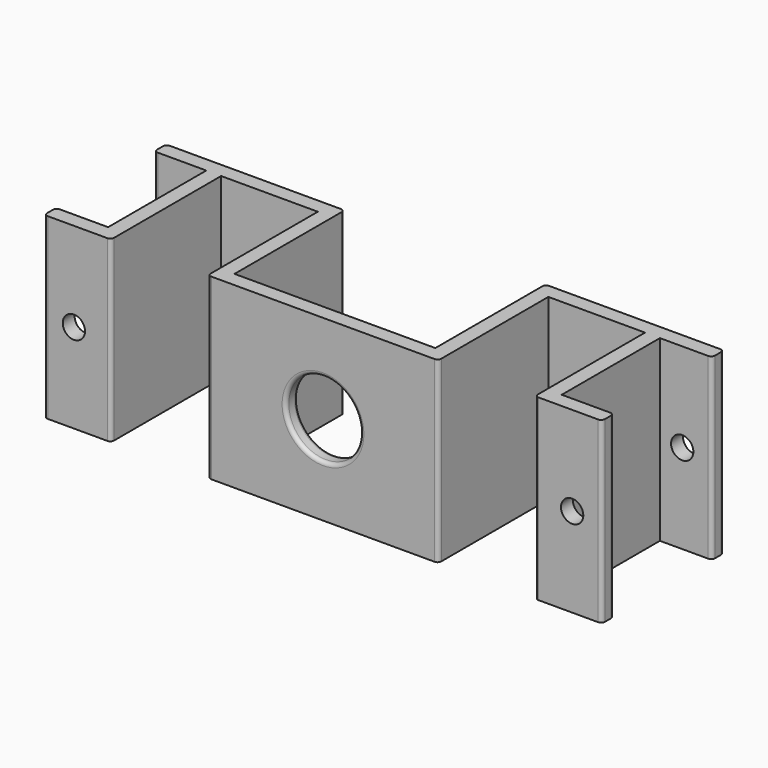
from build123d import *

# Parameters (mm, degrees)
F1_DEPTH = 24
F2_R     = 1.5
F2_R_2   = 5
F3_DEPTH = 25
F4_R     = 0.5


with BuildPart() as f1:
    # F0 (on Top) → F1 (new body)
    with BuildSketch(Plane.XY):
        Polygon((-15.5, 0), (0, 0), (15.5, 0), (15.5, 18.5), (28.5, 18.5), (28.5, 0), (37.5, 0), (37.5, 2), (30.5, 2), (30.5, 18.5), (37.5, 18.5), (37.5, 20.5), (13.5, 20.5), (13.5, 2), (0, 2), (-13.5, 2), (-13.5, 20.5), (-37.5, 20.5), (-37.5, 18.5), (-30.5, 18.5), (-30.5, 2), (-37.5, 2), (-37.5, 0), (-28.5, 0), (-28.5, 18.5), (-15.5, 18.5), align=None)
    extrude(amount=F1_DEPTH)

    # F2 (on face) → F3 (cut)
    with BuildSketch(Plane.XZ):
        with Locations((-33.5, 12)):
            Circle(F2_R)
        with Locations((0, 12)):
            Circle(F2_R_2)
        with Locations((33.5, 12)):
            Circle(F2_R)
    extrude(amount=-F3_DEPTH, mode=Mode.SUBTRACT)

    # F4
    f4_edges = [f1.edges().sort_by_distance(p)[0] for p in [
        (-13.5, 20.5, 12),
        (13.5, 20.5, 12),
        (15.5, 0, 12),
        (-28.5, 0, 12),
        (-15.5, 0, 12),
        (28.5, 0, 12),
        (37.5, 20.5, 12),
        (37.5, 18.5, 12),
        (37.5, 2, 12),
        (37.5, 0, 12),
        (-37.5, 20.5, 12),
        (-37.5, 18.5, 12),
        (-37.5, 2, 12),
        (-37.5, 0, 12),
        (-5, 0, 12),
        (-5, 2, 12),
    ]]
    fillet(f4_edges, radius=F4_R)


solid = f1.part
